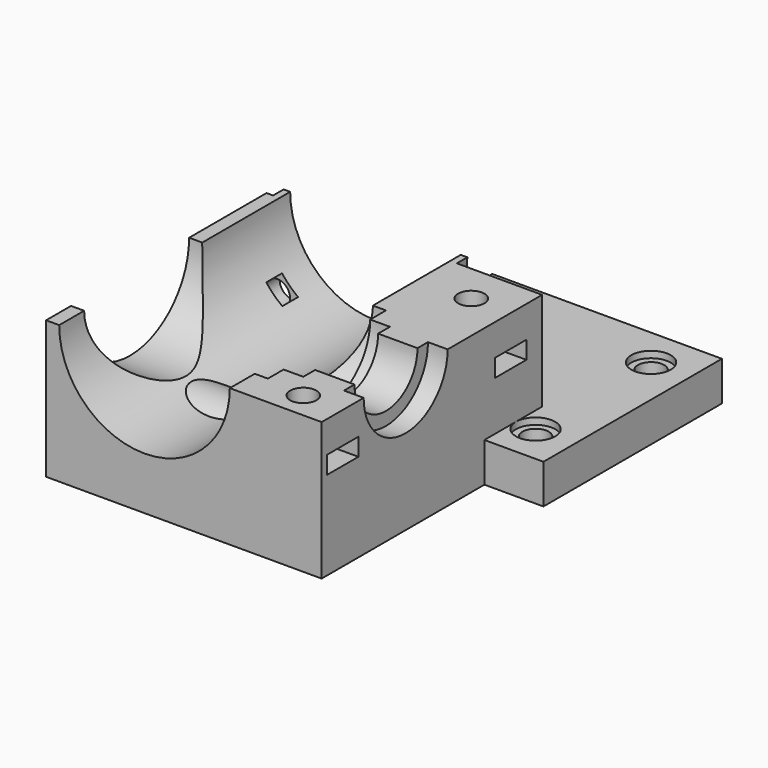
from build123d import *

# Parameters (mm, degrees)
CYLINDER078_R             = 13
CYLINDER078_DEPTH         = 2.2
CYLINDER078_ROLL_ANGLE    = 90
CYLINDER077_W             = 14
CYLINDER077_H             = 2
CYLINDER077_ANGLE         = 180
CYLINDER077_ROLL_ANGLE    = 90
CUT010007_PLACEMENT_ANGLE = 180
CYLINDER014_R             = 3
CYLINDER014_DEPTH         = 11
CYLINDER013_R             = 2
CYLINDER013_DEPTH         = 18
CYLINDER012_R             = 3
CYLINDER012_DEPTH         = 11
CYLINDER011_R             = 2
CYLINDER011_DEPTH         = 18
CYLINDER010_R             = 3
CYLINDER010_DEPTH         = 11
CYLINDER009_R             = 2
CYLINDER009_DEPTH         = 18
CYLINDER008_R             = 3
CYLINDER008_DEPTH         = 11
CYLINDER007_R             = 2
CYLINDER007_DEPTH         = 18
BOX007_W                  = 10
BOX007_H                  = 6
BOX007_DEPTH              = 2.7
CYLINDER019_R             = 3
CYLINDER019_DEPTH         = 11
CYLINDER018_R             = 2
CYLINDER018_DEPTH         = 22
BOX006_W                  = 10
BOX006_H                  = 6
BOX006_DEPTH              = 2.7
CYLINDER017_R             = 3
CYLINDER017_DEPTH         = 11
CYLINDER016_R             = 2
CYLINDER016_DEPTH         = 22
CYLINDER033_R             = 5
CYLINDER033_DEPTH         = 2.2
CYLINDER033_ROLL_ANGLE    = 90
CYLINDER042_R             = 2
CYLINDER042_DEPTH         = 25
PRISM003_DEPTH            = 10
FUSION031_ROLL_ANGLE      = -90
CYLINDER043_R             = 1.5
CYLINDER043_DEPTH         = 25
CYLINDER041_R             = 2
CYLINDER041_DEPTH         = 25
FUSION032_ROLL_ANGLE      = 90
BOX014_W                  = 15
BOX014_H                  = 6
BOX014_DEPTH              = 3
CYLINDER045_R             = 1.5
CYLINDER045_DEPTH         = 25
CYLINDER044_R             = 2
CYLINDER044_DEPTH         = 32
FUSION033_ROLL_ANGLE      = -90
CYLINDER040_R             = 2
CYLINDER040_DEPTH         = 25
PRISM002_DEPTH            = 10
FUSION030_ROLL_ANGLE      = -90
CYLINDER005_R             = 6
CYLINDER005_DEPTH         = 20
CYLINDER005_PITCH_ANGLE   = 90
CYLINDER006_R             = 6
CYLINDER006_DEPTH         = 20
CYLINDER006_PITCH_ANGLE   = 90
CYLINDER004_R             = 13
CYLINDER004_DEPTH         = 60
CYLINDER004_ROLL_ANGLE    = 90
CYLINDER003_R             = 8
CYLINDER003_DEPTH         = 3
CYLINDER003_PITCH_ANGLE   = 90
CYLINDER002_R             = 6
CYLINDER002_DEPTH         = 39
CYLINDER002_PITCH_ANGLE   = 90
CYLINDER001_R             = 8.25
CYLINDER001_DEPTH         = 33
CYLINDER001_PITCH_ANGLE   = 90
CYLINDER_R                = 11.25
CYLINDER_DEPTH            = 36
CYLINDER_PITCH_ANGLE      = 90
BOX_W                     = 42
BOX_H                     = 42
BOX_DEPTH                 = 21
BOX002_W                  = 35
BOX002_H                  = 34
BOX002_DEPTH              = 6


with BuildPart() as obj1:
    # Cylinder078 → Cylinder078 (new body)
    with BuildSketch(Plane.XY):
        Circle(CYLINDER078_R)
    extrude(amount=CYLINDER078_DEPTH)


with BuildPart() as obj1_1:
    # Cylinder078 roll: moved
    add(obj1.part.rotate(Axis((0, 0, 0), (1, 0, 0)), CYLINDER078_ROLL_ANGLE))


with BuildPart() as obj1_2:
    # Cylinder078 placement: moved
    add(obj1_1.part.moved(Location((15, 29, 0))))


with BuildPart() as obj2:
    # Cylinder077 → Cylinder077 (revolve)
    with BuildSketch(Plane.XZ):
        with Locations((7, 1)):
            Rectangle(CYLINDER077_W, CYLINDER077_H)
    revolve(axis=Axis((0, 0, 0), (0, 0, 1)), revolution_arc=CYLINDER077_ANGLE)


with BuildPart() as obj2_1:
    # Cylinder077 roll: moved
    add(obj2.part.rotate(Axis((0, 0, 0), (1, 0, 0)), CYLINDER077_ROLL_ANGLE))


with BuildPart() as obj2_2:
    # Cylinder077 placement: moved
    add(obj2_1.part.moved(Location((15, 29, 0))))

    # Cut010007: cut obj1
    add(obj1_2.part, mode=Mode.SUBTRACT)


with BuildPart() as obj2_3:
    # Cut010007 placement: moved
    add(obj2_2.part.moved(Location((30, -1, 0))).rotate(Axis((30, -1, 0), (0, 1, 0)), CUT010007_PLACEMENT_ANGLE))


with BuildPart() as cylinder014:
    # Cylinder014 → Cylinder014 (new body)
    with BuildSketch(Plane(origin=(45, 21, -12), x_dir=(1, 0, 0), z_dir=(0, 0, 1))):
        Circle(CYLINDER014_R)
    extrude(amount=CYLINDER014_DEPTH)


with BuildPart() as fusion005:
    # Cylinder013 → Cylinder013 (new body)
    with BuildSketch(Plane(origin=(45, 21, -19), x_dir=(1, 0, 0), z_dir=(0, 0, 1))):
        Circle(CYLINDER013_R)
    extrude(amount=CYLINDER013_DEPTH)

    # Fusion005: union Cylinder014
    add(cylinder014.part)


with BuildPart() as fusion005_1:
    # Fusion005 placement: moved
    add(fusion005.part.moved(Location((0, 22, 0))))


with BuildPart() as cylinder012:
    # Cylinder012 → Cylinder012 (new body)
    with BuildSketch(Plane(origin=(45, 21, -12), x_dir=(1, 0, 0), z_dir=(0, 0, 1))):
        Circle(CYLINDER012_R)
    extrude(amount=CYLINDER012_DEPTH)


with BuildPart() as fusion004:
    # Cylinder011 → Cylinder011 (new body)
    with BuildSketch(Plane(origin=(45, 21, -19), x_dir=(1, 0, 0), z_dir=(0, 0, 1))):
        Circle(CYLINDER011_R)
    extrude(amount=CYLINDER011_DEPTH)

    # Fusion004: union Cylinder012
    add(cylinder012.part)


with BuildPart() as fusion004_1:
    # Fusion004 placement: moved
    add(fusion004.part.moved(Location((-22, 22, 0))))


with BuildPart() as cylinder010:
    # Cylinder010 → Cylinder010 (new body)
    with BuildSketch(Plane(origin=(45, 21, -12), x_dir=(1, 0, 0), z_dir=(0, 0, 1))):
        Circle(CYLINDER010_R)
    extrude(amount=CYLINDER010_DEPTH)


with BuildPart() as fusion003:
    # Cylinder009 → Cylinder009 (new body)
    with BuildSketch(Plane(origin=(45, 21, -19), x_dir=(1, 0, 0), z_dir=(0, 0, 1))):
        Circle(CYLINDER009_R)
    extrude(amount=CYLINDER009_DEPTH)

    # Fusion003: union Cylinder010
    add(cylinder010.part)


with BuildPart() as fusion003_1:
    # Fusion003 placement: moved
    add(fusion003.part.moved(Location((-22, 0, 0))))


with BuildPart() as cylinder008:
    # Cylinder008 → Cylinder008 (new body)
    with BuildSketch(Plane(origin=(45, 21, -12), x_dir=(1, 0, 0), z_dir=(0, 0, 1))):
        Circle(CYLINDER008_R)
    extrude(amount=CYLINDER008_DEPTH)


with BuildPart() as obj3:
    # Cylinder007 → Cylinder007 (new body)
    with BuildSketch(Plane(origin=(45, 21, -19), x_dir=(1, 0, 0), z_dir=(0, 0, 1))):
        Circle(CYLINDER007_R)
    extrude(amount=CYLINDER007_DEPTH)

    # Fusion002: union Cylinder008
    add(cylinder008.part)

    # Fusion006: union Fusion005, Fusion004, Fusion003
    add(fusion005_1.part)
    add(fusion004_1.part)
    add(fusion003_1.part)


with BuildPart() as obj3_1:
    # Fusion006 placement: moved
    add(obj3.part.moved(Location((0, 0, -4))))


with BuildPart() as cube004:
    # Box007 → Box007 (new body)
    with BuildSketch(Plane(origin=(41.8, 14, -7.5), x_dir=(1, 0, 0), z_dir=(0, 0, 1))):
        with Locations((5, 3)):
            Rectangle(BOX007_W, BOX007_H)
    extrude(amount=BOX007_DEPTH)


with BuildPart() as cylinder019:
    # Cylinder019 → Cylinder019 (new body)
    with BuildSketch(Plane(origin=(45, 21, -12), x_dir=(1, 0, 0), z_dir=(0, 0, 1))):
        Circle(CYLINDER019_R)
    extrude(amount=CYLINDER019_DEPTH)


with BuildPart() as fusion012:
    # Cylinder018 → Cylinder018 (new body)
    with BuildSketch(Plane(origin=(45, 21, -34), x_dir=(1, 0, 0), z_dir=(0, 0, 1))):
        Circle(CYLINDER018_R)
    extrude(amount=CYLINDER018_DEPTH)

    # Fusion011: union Cylinder019
    add(cylinder019.part)


with BuildPart() as fusion012_1:
    # Fusion011 placement: moved
    add(fusion012.part.moved(Location((0, -4, 24))))

    # Fusion012: union Cube004
    add(cube004.part)


with BuildPart() as fusion012_2:
    # Fusion012 placement: moved
    add(fusion012_1.part.moved(Location((-9, -29, 0))))


with BuildPart() as cube003:
    # Box006 → Box006 (new body)
    with BuildSketch(Plane(origin=(41.8, 14, -7.5), x_dir=(1, 0, 0), z_dir=(0, 0, 1))):
        with Locations((5, 3)):
            Rectangle(BOX006_W, BOX006_H)
    extrude(amount=BOX006_DEPTH)


with BuildPart() as cylinder017:
    # Cylinder017 → Cylinder017 (new body)
    with BuildSketch(Plane(origin=(45, 21, -12), x_dir=(1, 0, 0), z_dir=(0, 0, 1))):
        Circle(CYLINDER017_R)
    extrude(amount=CYLINDER017_DEPTH)


with BuildPart() as obj4:
    # Cylinder016 → Cylinder016 (new body)
    with BuildSketch(Plane(origin=(45, 21, -34), x_dir=(1, 0, 0), z_dir=(0, 0, 1))):
        Circle(CYLINDER016_R)
    extrude(amount=CYLINDER016_DEPTH)

    # Fusion009: union Cylinder017
    add(cylinder017.part)


with BuildPart() as obj4_1:
    # Fusion009 placement: moved
    add(obj4.part.moved(Location((0, -4, 24))))

    # Fusion010: union Cube003
    add(cube003.part)


with BuildPart() as obj4_2:
    # Fusion010 placement: moved
    add(obj4_1.part.moved(Location((-9, 3, 0))))

    # Fusion013: union Fusion012
    add(fusion012_2.part)


with BuildPart() as obj5:
    # Cylinder033 → Cylinder033 (new body)
    with BuildSketch(Plane.XY):
        Circle(CYLINDER033_R)
    extrude(amount=CYLINDER033_DEPTH)


with BuildPart() as obj5_1:
    # Cylinder033 roll: moved
    add(obj5.part.rotate(Axis((0, 0, 0), (1, 0, 0)), CYLINDER033_ROLL_ANGLE))


with BuildPart() as obj5_2:
    # Cylinder033 placement: moved
    add(obj5_1.part.moved(Location((15, 26, 0))))


with BuildPart() as cylinder042:
    # Cylinder042 → Cylinder042 (new body)
    with BuildSketch(Plane(origin=(70, 70, 0), x_dir=(1, 0, 0), z_dir=(0, 0, 1))):
        Circle(CYLINDER042_R)
    extrude(amount=CYLINDER042_DEPTH)


with BuildPart() as obj6:
    # Prism003 → Prism003 (new body)
    with BuildSketch(Plane(origin=(70, 70, 0), x_dir=(1, 0, 0), z_dir=(0, 0, 1))):
        Polygon((3.1, 0), (1.55, 2.684679), (-1.55, 2.684679), (-3.1, 0), (-1.55, -2.684679), (1.55, -2.684679), align=None)
    extrude(amount=PRISM003_DEPTH)

    # Fusion031: union Cylinder042
    add(cylinder042.part)


with BuildPart() as obj6_1:
    # Fusion031 roll: moved
    add(obj6.part.rotate(Axis((0, 0, 0), (1, 0, 0)), FUSION031_ROLL_ANGLE))


with BuildPart() as obj6_2:
    # Fusion031 placement: moved
    add(obj6_1.part.moved(Location((-34, 19, 91))))


with BuildPart() as cylinder043:
    # Cylinder043 → Cylinder043 (new body)
    with BuildSketch(Plane(origin=(70, 70, 7), x_dir=(1, 0, 0), z_dir=(0, 0, 1))):
        Circle(CYLINDER043_R)
    extrude(amount=CYLINDER043_DEPTH)


with BuildPart() as obj7:
    # Cylinder041 → Cylinder041 (new body)
    with BuildSketch(Plane(origin=(70, 70, 0), x_dir=(1, 0, 0), z_dir=(0, 0, 1))):
        Circle(CYLINDER041_R)
    extrude(amount=CYLINDER041_DEPTH)

    # Fusion032: union Cylinder043
    add(cylinder043.part)


with BuildPart() as obj7_1:
    # Fusion032 roll: moved
    add(obj7.part.rotate(Axis((0, 0, 0), (1, 0, 0)), FUSION032_ROLL_ANGLE))


with BuildPart() as obj7_2:
    # Fusion032 placement: moved
    add(obj7_1.part.moved(Location((-34, 52, -81))))


with BuildPart() as cube011:
    # Box014 → Box014 (new body)
    with BuildSketch(Plane(origin=(58.2, 67, 3), x_dir=(1, 0, 0), z_dir=(0, 0, 1))):
        with Locations((7.5, 3)):
            Rectangle(BOX014_W, BOX014_H)
    extrude(amount=BOX014_DEPTH)


with BuildPart() as cylinder045:
    # Cylinder045 → Cylinder045 (new body)
    with BuildSketch(Plane(origin=(70, 70, 7), x_dir=(1, 0, 0), z_dir=(0, 0, 1))):
        Circle(CYLINDER045_R)
    extrude(amount=CYLINDER045_DEPTH)


with BuildPart() as fusion033:
    # Cylinder044 → Cylinder044 (new body)
    with BuildSketch(Plane(origin=(70, 70, 0), x_dir=(1, 0, 0), z_dir=(0, 0, 1))):
        Circle(CYLINDER044_R)
    extrude(amount=CYLINDER044_DEPTH)

    # Fusion033: union Cube011, Cylinder045
    add(cube011.part)
    add(cylinder045.part)


with BuildPart() as fusion033_1:
    # Fusion033 roll: moved
    add(fusion033.part.rotate(Axis((0, 0, 0), (1, 0, 0)), FUSION033_ROLL_ANGLE))


with BuildPart() as fusion033_2:
    # Fusion033 placement: moved
    add(fusion033_1.part.moved(Location((-66, 18, 59))))


with BuildPart() as cylinder040:
    # Cylinder040 → Cylinder040 (new body)
    with BuildSketch(Plane(origin=(70, 70, 0), x_dir=(1, 0, 0), z_dir=(0, 0, 1))):
        Circle(CYLINDER040_R)
    extrude(amount=CYLINDER040_DEPTH)


with BuildPart() as obj8:
    # Prism002 → Prism002 (new body)
    with BuildSketch(Plane(origin=(70, 70, 0), x_dir=(1, 0, 0), z_dir=(0, 0, 1))):
        Polygon((3.1, 0), (1.55, 2.684679), (-1.55, 2.684679), (-3.1, 0), (-1.55, -2.684679), (1.55, -2.684679), align=None)
    extrude(amount=PRISM002_DEPTH)

    # Fusion030: union Cylinder040
    add(cylinder040.part)


with BuildPart() as obj8_1:
    # Fusion030 roll: moved
    add(obj8.part.rotate(Axis((0, 0, 0), (1, 0, 0)), FUSION030_ROLL_ANGLE))


with BuildPart() as obj8_2:
    # Fusion030 placement: moved
    add(obj8_1.part.moved(Location((-66, 19, 91))))

    # Fusion034: union obj6, obj7, Fusion033
    add(obj6_2.part)
    add(obj7_2.part)
    add(fusion033_2.part)


with BuildPart() as obj8_3:
    # Fusion034 placement: moved
    add(obj8_2.part.moved(Location((0, -1, 0))))


with BuildPart() as cylinder005:
    # Cylinder005 → Cylinder005 (new body)
    with BuildSketch(Plane.XY):
        Circle(CYLINDER005_R)
    extrude(amount=CYLINDER005_DEPTH)


with BuildPart() as cylinder005_1:
    # Cylinder005 pitch: moved
    add(cylinder005.part.rotate(Axis((0, 0, 0), (0, 1, 0)), CYLINDER005_PITCH_ANGLE))


with BuildPart() as cylinder005_2:
    # Cylinder005 placement: moved
    add(cylinder005_1.part.moved(Location((5, 0, 17.7))))


with BuildPart() as fusion:
    # Cylinder006 → Cylinder006 (new body)
    with BuildSketch(Plane.XY):
        Circle(CYLINDER006_R)
    extrude(amount=CYLINDER006_DEPTH)


with BuildPart() as fusion_1:
    # Cylinder006 pitch: moved
    add(fusion.part.rotate(Axis((0, 0, 0), (0, 1, 0)), CYLINDER006_PITCH_ANGLE))


with BuildPart() as fusion_2:
    # Cylinder006 placement: moved
    add(fusion_1.part.moved(Location((5, 0, -17.7))))

    # Fusion: union Cylinder005
    add(cylinder005_2.part)


with BuildPart() as cut:
    # Cylinder004 → Cylinder004 (new body)
    with BuildSketch(Plane.XY):
        Circle(CYLINDER004_R)
    extrude(amount=CYLINDER004_DEPTH)


with BuildPart() as cut_1:
    # Cylinder004 roll: moved
    add(cut.part.rotate(Axis((0, 0, 0), (1, 0, 0)), CYLINDER004_ROLL_ANGLE))


with BuildPart() as cut_2:
    # Cylinder004 placement: moved
    add(cut_1.part.moved(Location((15, 38, 0))))

    # Cut: cut Fusion
    add(fusion_2.part, mode=Mode.SUBTRACT)


with BuildPart() as cylinder003:
    # Cylinder003 → Cylinder003 (new body)
    with BuildSketch(Plane.XY):
        Circle(CYLINDER003_R)
    extrude(amount=CYLINDER003_DEPTH)


with BuildPart() as cylinder003_1:
    # Cylinder003 pitch: moved
    add(cylinder003.part.rotate(Axis((0, 0, 0), (0, 1, 0)), CYLINDER003_PITCH_ANGLE))


with BuildPart() as cylinder003_2:
    # Cylinder003 placement: moved
    add(cylinder003_1.part.moved(Location((39, 0, 0))))


with BuildPart() as cylinder002:
    # Cylinder002 → Cylinder002 (new body)
    with BuildSketch(Plane.XY):
        Circle(CYLINDER002_R)
    extrude(amount=CYLINDER002_DEPTH)


with BuildPart() as cylinder002_1:
    # Cylinder002 pitch: moved
    add(cylinder002.part.rotate(Axis((0, 0, 0), (0, 1, 0)), CYLINDER002_PITCH_ANGLE))


with BuildPart() as cylinder002_2:
    # Cylinder002 placement: moved
    add(cylinder002_1.part)


with BuildPart() as cylinder001:
    # Cylinder001 → Cylinder001 (new body)
    with BuildSketch(Plane.XY):
        Circle(CYLINDER001_R)
    extrude(amount=CYLINDER001_DEPTH)


with BuildPart() as cylinder001_1:
    # Cylinder001 pitch: moved
    add(cylinder001.part.rotate(Axis((0, 0, 0), (0, 1, 0)), CYLINDER001_PITCH_ANGLE))


with BuildPart() as cylinder001_2:
    # Cylinder001 placement: moved
    add(cylinder001_1.part)


with BuildPart() as obj9:
    # Cylinder → Cylinder (new body)
    with BuildSketch(Plane.XY):
        Circle(CYLINDER_R)
    extrude(amount=CYLINDER_DEPTH)


with BuildPart() as obj9_1:
    # Cylinder pitch: moved
    add(obj9.part.rotate(Axis((0, 0, 0), (0, 1, 0)), CYLINDER_PITCH_ANGLE))


with BuildPart() as obj9_2:
    # Cylinder placement: moved
    add(obj9_1.part.moved(Location((-6, 0, 0))))

    # Fusion001: union Cut, Cylinder003, Cylinder002, Cylinder001
    add(cut_2.part)
    add(cylinder003_2.part)
    add(cylinder002_2.part)
    add(cylinder001_2.part)

    # Fusion036: union obj3, obj4, obj5, obj8
    add(obj3_1.part)
    add(obj4_2.part)
    add(obj5_2.part)
    add(obj8_3.part)


with BuildPart() as obj10:
    # Box → Box (new body)
    with BuildSketch(Plane(origin=(0, -16, -21), x_dir=(1, 0, 0), z_dir=(0, 0, 1))):
        with Locations((21, 21)):
            Rectangle(BOX_W, BOX_H)
    extrude(amount=BOX_DEPTH)


with BuildPart() as obj11:
    # Box002 → Box002 (new body)
    with BuildSketch(Plane(origin=(16, 15, -21), x_dir=(1, 0, 0), z_dir=(0, 0, 1))):
        with Locations((17.5, 17)):
            Rectangle(BOX002_W, BOX002_H)
    extrude(amount=BOX002_DEPTH)

    # Fusion035: union obj10
    add(obj10.part)

    # Cut007: cut obj9
    add(obj9_2.part, mode=Mode.SUBTRACT)

    # Fusion057: union obj2
    add(obj2_3.part)


solid = obj11.part
